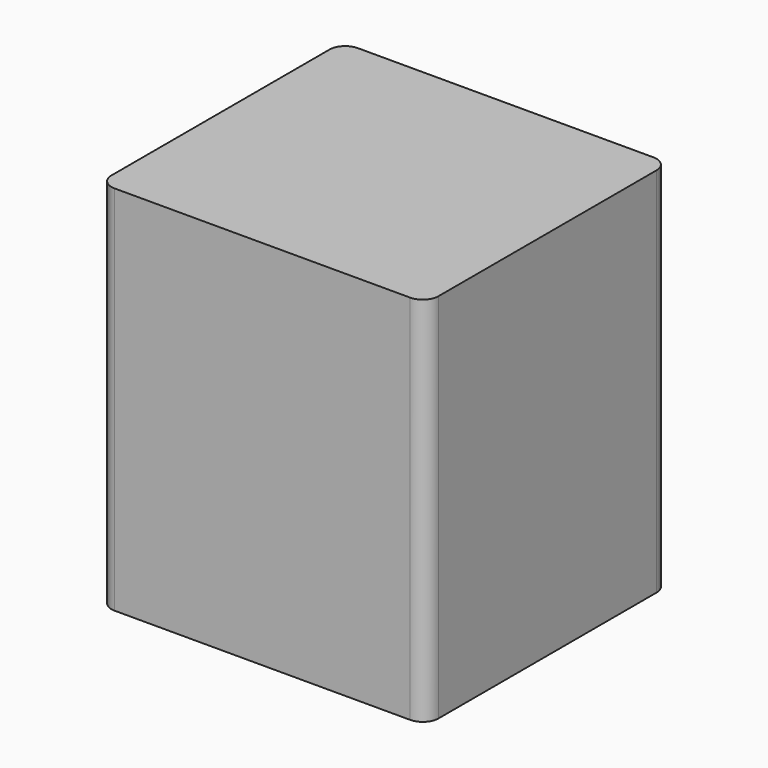
from build123d import *

# Parameters (mm, degrees)
F1_DEPTH = 75


with BuildPart() as f1:
    # F0 (on Top) → F1 (new body, symmetric)
    with BuildSketch(Plane.XY):
        with BuildLine():
            ThreePointArc((-65.973619, -54.968943), (-64.113747, -59.459071), (-59.623619, -61.318943))
            Line((-59.623619, -61.318943), (59.623619, -61.318943))
            ThreePointArc((59.623619, -61.318943), (64.113747, -59.459071), (65.973619, -54.968943))
            Line((65.973619, -54.968943), (65.973619, 54.968943))
            ThreePointArc((65.973619, 54.968943), (64.113747, 59.459071), (59.623619, 61.318943))
            Line((59.623619, 61.318943), (-59.623619, 61.318943))
            ThreePointArc((-59.623619, 61.318943), (-64.113747, 59.459071), (-65.973619, 54.968943))
            Line((-65.973619, 54.968943), (-65.973619, -54.968943))
        make_face()
    extrude(amount=F1_DEPTH, both=True)


solid = f1.part
